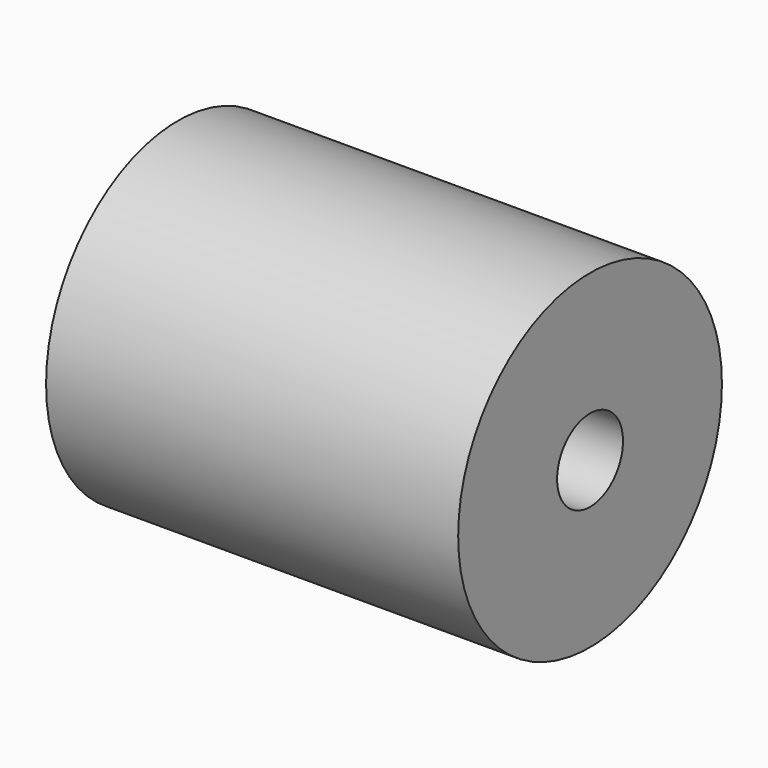
from build123d import *

# Parameters (mm, degrees)
F0_R     = 10
F0_R_2   = 2.5
F2_DEPTH = 12.5
F3_D     = 5
F3_DEPTH = 5
F3_TIP   = 1.5021515476
F5_DEPTH = 14.868


with BuildPart() as f2:
    # F0 (on Right) → F2 (new body, symmetric)
    with BuildSketch(Plane.YZ):
        Circle(F0_R)
        Circle(F0_R_2, mode=Mode.SUBTRACT)
        Circle(F0_R_2)
    extrude(amount=F2_DEPTH, both=True)

    # F3
    with Locations(Plane.YZ.offset(12.5)):
        with Locations((0, 0)):
            Hole(F3_D / 2, depth=F3_DEPTH)
            with Locations((0, 0, -(F3_DEPTH + F3_TIP / 2))):  # 118° drill point
                Cone(0, F3_D / 2, F3_TIP, mode=Mode.SUBTRACT)

    # F4 (on face) → F5 (cut)
    with BuildSketch(Plane(origin=(-12.5, 0, 0), x_dir=(0, -1, 0), z_dir=(-1, 0, 0))):
        with BuildLine():
            Line((1.4575, 2.025023148), (-1.4575, 2.025023148))
            ThreePointArc((-1.4575, 2.025023148), (0, -2.495), (1.4575, 2.025023148))
        make_face()
    extrude(amount=-F5_DEPTH, mode=Mode.SUBTRACT)


solid = f2.part
